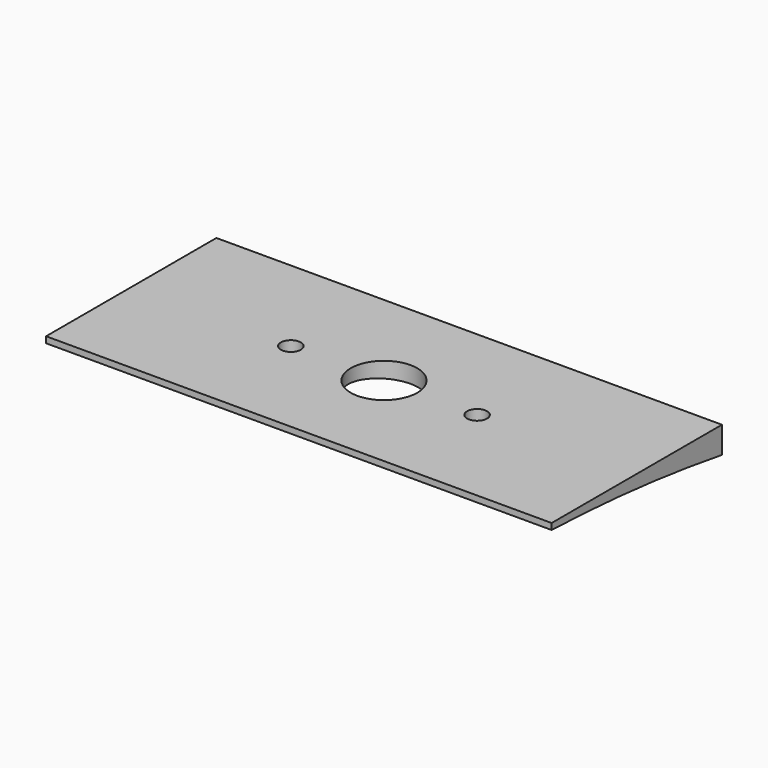
from build123d import *

# Parameters (mm, degrees)
F1_DEPTH = 60.325
F2_R     = 7.9375
F2_R_2   = 2.38125
F3_DEPTH = 4.9359792052


with BuildPart() as f1:
    # F0 (on Right) → F1 (new body, symmetric)
    with BuildSketch(Plane.YZ):
        with BuildLine():
            Line((0, 0), (0, 6.35))
            Line((0, 6.35), (-50.8, 6.35))
            Line((-50.8, 6.35), (-50.8, 4.8701947642))
            ThreePointArc((-50.8, 4.8701947642), (-25.322261732, 3.2459692683), (0, 0))
        make_face()
    extrude(amount=F1_DEPTH, both=True)

    # F2 (on face) → F3 (cut, up to face)
    with BuildSketch(Plane.XY.offset(6.35)):
        with Locations((0, -25.4)):
            Circle(F2_R)
        with Locations((-22.225, -25.4)):
            Circle(F2_R_2)
        with Locations((22.225, -25.4)):
            Circle(F2_R_2)
    extrude(amount=-F3_DEPTH, mode=Mode.SUBTRACT)


solid = f1.part
